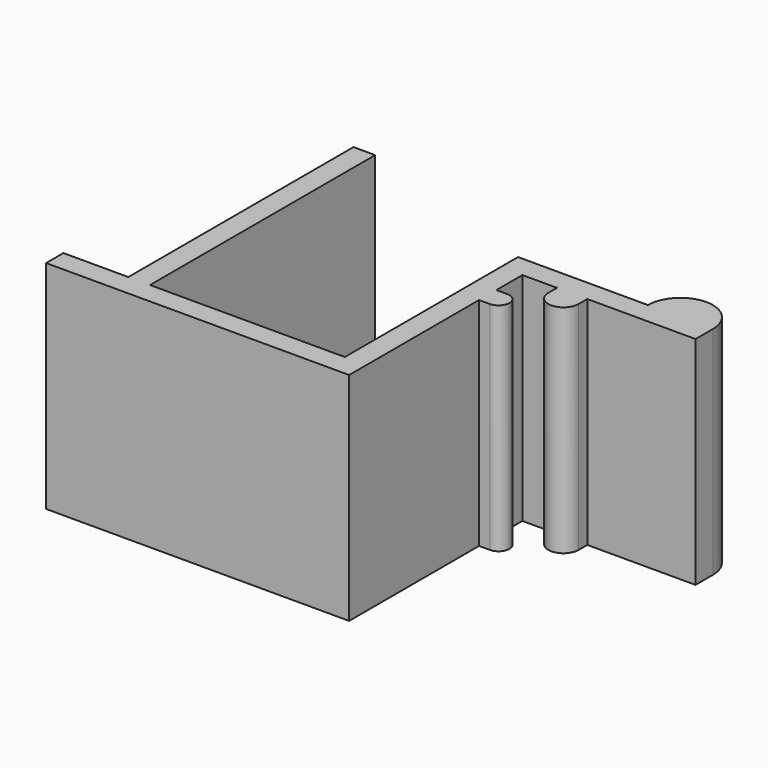
from build123d import *

# Parameters (mm, degrees)
PAD_DEPTH    = 10
PAD001_DEPTH = 10


with BuildPart() as part:
    # Sketch → Pad (new body)
    with BuildSketch(Plane.XY):
        with BuildLine():
            Line((7, -1), (-7, -1))
            Line((-7, -1), (-7, 0))
            Line((-7, 0), (-4, 0))
            Line((-4, 13), (-4, 0))
            Line((-3, 13), (-4, 13))
            Line((-3, 0), (-3, 13))
            Line((-3, 0), (6, 0))
            Line((6, 0), (6, 10))
            Line((12, 10), (6, 10))
            ThreePointArc((15, 10), (13.5, 11.5), (12, 10))
            Line((15, 10), (15, 9))
            Line((15, 9), (10, 9))
            Line((10, 9), (10, 8.5))
            ThreePointArc((8.6, 8.5), (9.3, 7.8), (10, 8.5))
            Line((8.6, 9), (8.6, 8.5))
            Line((7, 9), (8.6, 9))
            Line((7, 9), (7, 7.5))
            Line((7, 7.5), (7.5, 7.5))
            ThreePointArc((7.5, 6.5), (8, 7), (7.5, 7.5))
            Line((7, 6.5), (7.5, 6.5))
            Line((7, 6.5), (7, -1))
        make_face()
    extrude(amount=PAD_DEPTH)

    # Sketch → Pad001 (join)
    with BuildSketch(Plane.XY):
        with BuildLine():
            Line((7, -1), (-7, -1))
            Line((-7, -1), (-7, 0))
            Line((-7, 0), (-4, 0))
            Line((-4, 13), (-4, 0))
            Line((-3, 13), (-4, 13))
            Line((-3, 0), (-3, 13))
            Line((-3, 0), (6, 0))
            Line((6, 0), (6, 10))
            Line((12, 10), (6, 10))
            ThreePointArc((15, 10), (13.5, 11.5), (12, 10))
            Line((15, 10), (15, 9))
            Line((15, 9), (10, 9))
            Line((10, 9), (10, 8.5))
            ThreePointArc((8.6, 8.5), (9.3, 7.8), (10, 8.5))
            Line((8.6, 9), (8.6, 8.5))
            Line((7, 9), (8.6, 9))
            Line((7, 9), (7, 7.5))
            Line((7, 7.5), (7.5, 7.5))
            ThreePointArc((7.5, 6.5), (8, 7), (7.5, 7.5))
            Line((7, 6.5), (7.5, 6.5))
            Line((7, 6.5), (7, -1))
        make_face()
    extrude(amount=PAD001_DEPTH)


solid = part.part
